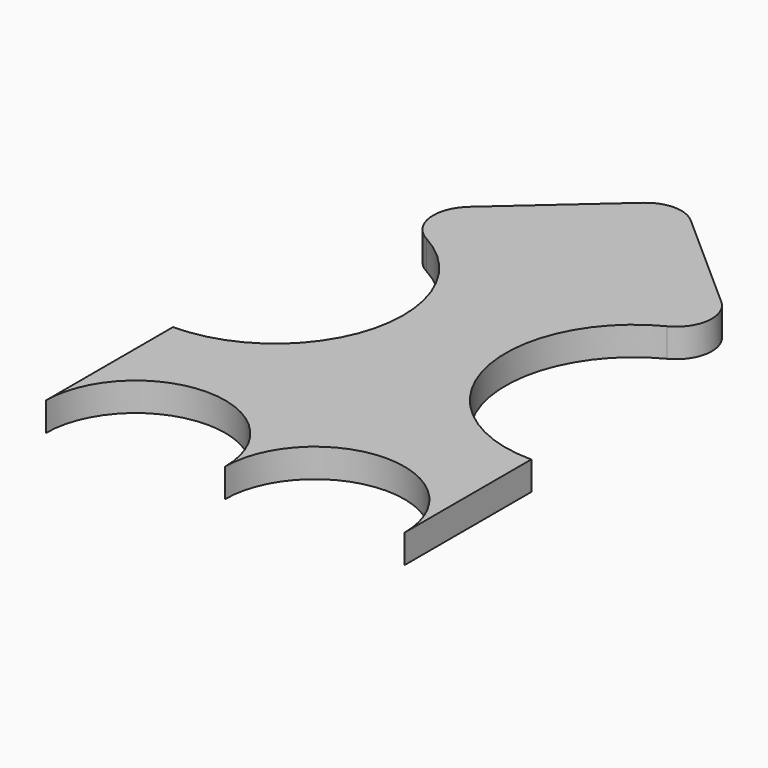
from build123d import *

# Parameters (mm, degrees)
F1_DEPTH = 5.08


with BuildPart() as f1:
    # F0 (on Top) → F1 (new body)
    with BuildSketch(Plane.XY):
        with BuildLine():
            ThreePointArc((-52.720005, -30.842755), (-41.509299, -56.359582), (-63.5, -73.48259))
            Line((-63.5, -73.48259), (-63.5, -101.6))
            ThreePointArc((-63.5, -101.6), (-47.625, -85.725), (-31.75, -101.6))
            ThreePointArc((-31.75, -101.6), (-15.875, -85.725), (0, -101.6))
            Line((0, -101.6), (0, -73.48259))
            ThreePointArc((0, -73.48259), (-22.056218, -56.093689), (-10.29501, -30.588304))
            ThreePointArc((-10.29501, -30.588304), (-6.878118, -25.733334), (-8.967166, -20.176198))
            Line((-8.967166, -20.176198), (-27.540063, -3.728268))
            ThreePointArc((-27.540063, -3.728268), (-31.75, -2.132102), (-35.959937, -3.728268))
            Line((-35.959937, -3.728268), (-54.003646, -19.707556))
            ThreePointArc((-54.003646, -19.707556), (-56.263112, -25.609609), (-52.720005, -30.842755))
        make_face()
    extrude(amount=F1_DEPTH)


solid = f1.part
